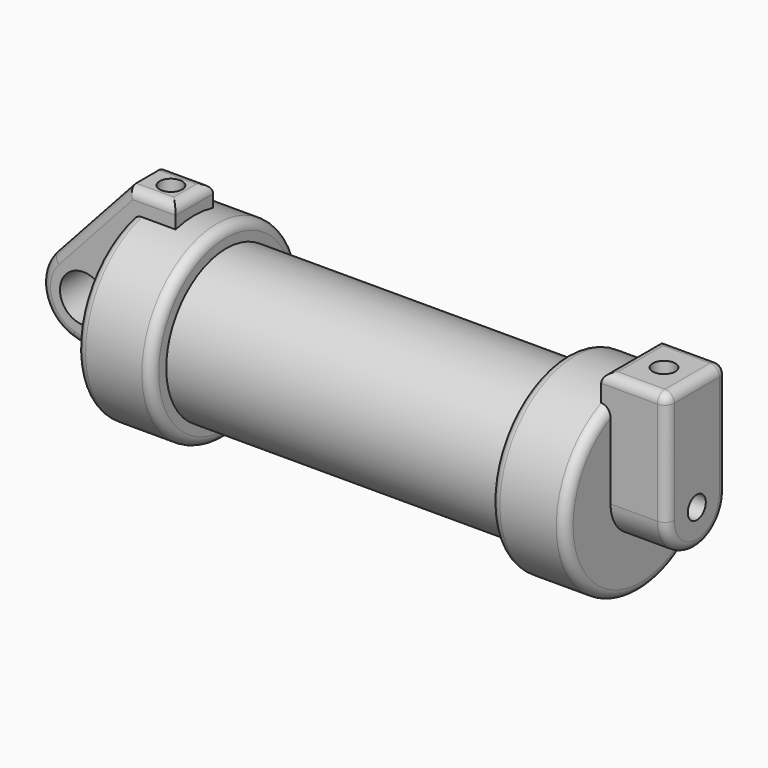
from build123d import *

# Parameters (mm, degrees)
F0_W     = 5.842
F0_H     = 12.7
F0_R     = 3.175
F2_DEPTH = 3.175
F3_R     = 1.524
F4_DEPTH = 7.62
F5_DEPTH = 1.27
F6_R     = 1.524
F7_DEPTH = 10.414
F8_R     = 1.524
F9_DEPTH = 17.78
F10_R    = 1.27
F10_2_R  = 1.27


with BuildPart() as f1:
    # F0 (on Front) → F1 (revolve)
    with BuildSketch(Plane.XZ):
        Polygon((5.842, 12.7), (5.842, 0), (66.294, 0), (66.294, 12.7), (56.134, 12.7), (56.134, 10.16), (10.16, 10.16), (10.16, 12.7), align=None)
        with Locations((2.921, 6.35)):
            Rectangle(F0_W, F0_H)
    revolve(axis=Axis((33.147, 0, 0), (-1, 0, 0)))

    # F3 (on face) → F4 (join)
    with BuildSketch(Plane.YZ.offset(66.294)):
        with BuildLine():
            ThreePointArc((-5.08, 11.6397422652), (0, 12.7), (5.08, 11.6397422652))
            Line((5.08, 11.6397422652), (5.08, 15.24))
            Line((5.08, 15.24), (-5.08, 15.24))
            Line((-5.08, 15.24), (-5.08, 11.6397422652))
        make_face()
        with BuildLine():
            ThreePointArc((-5.08, 0), (0, 5.08), (5.08, 0))
            Line((5.08, 0), (5.08, 11.6397422652))
            ThreePointArc((5.08, 11.6397422652), (0, 12.7), (-5.08, 11.6397422652))
            Line((-5.08, 11.6397422652), (-5.08, 0))
        make_face()
        with BuildLine():
            ThreePointArc((-5.08, 0), (0, -5.08), (5.08, 0))
            ThreePointArc((5.08, 0), (0, 5.08), (-5.08, 0))
        make_face()
        Circle(F3_R, mode=Mode.SUBTRACT)
    extrude(amount=F4_DEPTH)

    # F3 (on face) → F5 (join)
    with BuildSketch(Plane.YZ.offset(66.294)):
        with BuildLine():
            ThreePointArc((-5.08, 11.6397422652), (0, 12.7), (5.08, 11.6397422652))
            Line((5.08, 11.6397422652), (5.08, 15.24))
            Line((5.08, 15.24), (-5.08, 15.24))
            Line((-5.08, 15.24), (-5.08, 11.6397422652))
        make_face()
        with BuildLine():
            ThreePointArc((-5.08, 0), (0, 5.08), (5.08, 0))
            Line((5.08, 0), (5.08, 11.6397422652))
            ThreePointArc((5.08, 11.6397422652), (0, 12.7), (-5.08, 11.6397422652))
            Line((-5.08, 11.6397422652), (-5.08, 0))
        make_face()
        with BuildLine():
            ThreePointArc((-5.08, 0), (0, -5.08), (5.08, 0))
            ThreePointArc((5.08, 0), (0, 5.08), (-5.08, 0))
        make_face()
        Circle(F3_R, mode=Mode.SUBTRACT)
    extrude(amount=-F5_DEPTH)

    # F6 (on face) → F7 (cut)
    with BuildSketch(Plane.XY.offset(15.24)):
        with Locations((69.469, 0)):
            Circle(F6_R)
    extrude(amount=-F7_DEPTH, mode=Mode.SUBTRACT)

    # F10#2
    f10_2_edges = [f1.edges().sort_by_distance(p)[0] for p in [
        (0, 0, -12.7),
        (10.16, 0, -12.7),
        (56.134, 0, -12.7),
        (66.294, 0, -12.7),
        (69.469, -5.08, 15.24),
        (65.024, 0, 15.24),
        (73.914, 0, 15.24),
        (69.469, 5.08, 15.24),
        (73.914, -5.08, 7.62),
    ]]
    fillet(f10_2_edges, radius=F10_2_R)


with BuildPart() as f2:
    # F0 (on Front) → F2 (new body, symmetric)
    with BuildSketch(Plane.XZ):
        with BuildLine():
            Line((5.842, 0), (0, 0))
            Line((0, 0), (-0.9398, 0))
            ThreePointArc((-0.9398, 0), (-3.1957909266, -4.5493385486), (-8.1826630726, -5.5069827884))
            Line((-8.1826630726, -5.5069827884), (5.842, -9.398))
            Line((5.842, -9.398), (5.842, 0))
        make_face()
        with BuildLine():
            ThreePointArc((-8.1826630726, -5.5069827884), (-3.1957909266, -4.5493385486), (-0.9398, 0))
            ThreePointArc((-0.9398, 0), (-4.5919612295, 5.3297205562), (-10.8806298187, 3.8475430269))
            ThreePointArc((-10.8806298187, 3.8475430269), (-12.1459778134, -1.5837270034), (-8.1826630726, -5.5069827884))
        make_face()
        with Locations((-6.6548, 0)):
            Circle(F0_R, mode=Mode.SUBTRACT)
        with BuildLine():
            Line((-0.9398, 0), (0, 0))
            Line((0, 0), (0, 12.7))
            Line((0, 12.7), (5.842, 12.7))
            Line((5.842, 12.7), (5.842, 15.24))
            Line((5.842, 15.24), (-0.508, 15.24))
            Line((-0.508, 15.24), (-10.8806298187, 3.8475430269))
            ThreePointArc((-10.8806298187, 3.8475430269), (-4.5919612295, 5.3297205562), (-0.9398, 0))
        make_face()
        with Locations((2.921, 6.35)):
            Rectangle(F0_W, F0_H)
    extrude(amount=F2_DEPTH, both=True)

    # F8 (on face) → F9 (cut)
    with BuildSketch(Plane.XY.offset(15.24)):
        with Locations((2.667, 0)):
            Circle(F8_R)
    extrude(amount=-F9_DEPTH, mode=Mode.SUBTRACT)

    # F10
    f10_edges = [f2.edges().sort_by_distance(p)[0] for p in [
        (2.667, 3.175, 15.24),
        (2.667, -3.175, 15.24),
        (5.842, 0, 15.24),
        (-5.694315, -3.175, 9.543772),
        (-5.694315, 3.175, 9.543772),
        (-12.145978, 3.175, -1.583727),
    ]]
    fillet(f10_edges, radius=F10_R)


solid = Compound([f1.part, f2.part])
